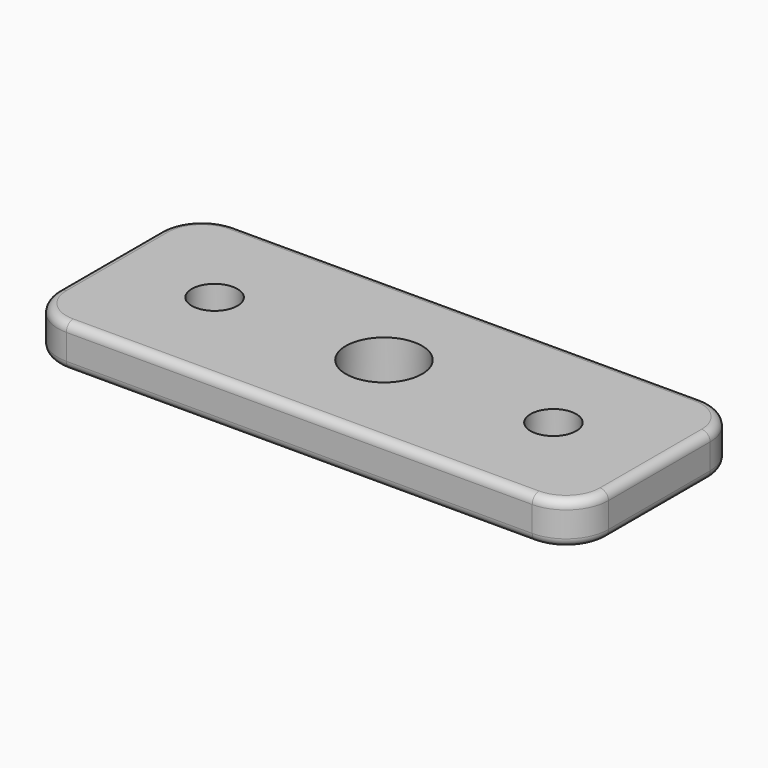
from build123d import *

# Parameters (mm, degrees)
F0_W     = 82.55
F0_H     = 31.75
F0_R     = 3.429
F0_R_2   = 5.715
F1_DEPTH = 6.35
F2_R     = 6.35
F3_R     = 1.27


with BuildPart() as f1:
    # F0 (on Top) → F1 (new body)
    with BuildSketch(Plane.XY):
        Rectangle(F0_W, F0_H)
        with Locations((-25.4, 0)):
            Circle(F0_R, mode=Mode.SUBTRACT)
        Circle(F0_R_2, mode=Mode.SUBTRACT)
        with Locations((25.4, 0)):
            Circle(F0_R, mode=Mode.SUBTRACT)
    extrude(amount=F1_DEPTH)

    # F2
    f2_edges = [f1.edges().sort_by_distance(p)[0] for p in [
        (-41.275, -15.875, 3.175),
        (41.275, -15.875, 3.175),
        (41.275, 15.875, 3.175),
        (-41.275, 15.875, 3.175),
    ]]
    fillet(f2_edges, radius=F2_R)

    # F3
    f3_edges = [f1.edges().sort_by_distance(p)[0] for p in [
        (0, -15.875, 6.35),
        (0, -15.875, 0),
    ]]
    fillet(f3_edges, radius=F3_R)


solid = f1.part
